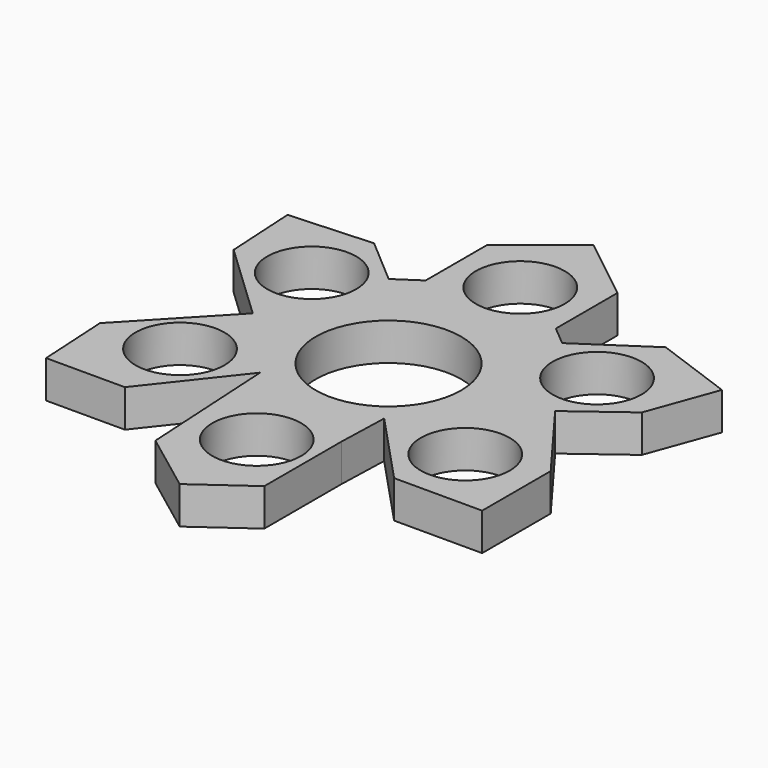
from build123d import *

# Parameters (mm, degrees)
F0_R     = 8.314784
F0_R_2   = 13.60402
F1_DEPTH = 7


with BuildPart() as f1:
    # F0 (on Top) → F1 (new body)
    with BuildSketch(Plane.XY):
        Polygon((-12.173187, 38.323), (-12.173187, 29.305821), (-12.173187, 23.895517), (-16.681775, 20.889791), (-25.398379, 28.377517), (-40.892324, 27.501774), (-40.126432, 13.951342), (-25.398379, 0), (-40.892324, -16.356536), (-40.126432, -29.906968), (-25.398379, -29.906968), (-12.835752, -13.976623), (-12.173187, -25.698951), (-11.347213, -40.312362), (0, -48.843037), (10.069179, -41.629296), (10.069179, -23.594944), (10.369752, -13.976623), (23.294371, -27.802957), (39.757541, -27.802957), (39.757541, -11.776054), (28.404102, 3.456584), (38.556404, 11.023464), (43.248007, 23.895517), (28.404102, 29.305821), (15.78006, 20.889791), (12.173187, 23.895517), (12.173187, 38.323), (0, 47.94132), align=None)
        with Locations((0, -30.808685)):
            Circle(F0_R, mode=Mode.SUBTRACT)
        with Locations((-26.681104, -15.404343)):
            Circle(F0_R, mode=Mode.SUBTRACT)
        with Locations((26.681104, -15.404343)):
            Circle(F0_R, mode=Mode.SUBTRACT)
        with Locations((-26.681104, 15.404343)):
            Circle(F0_R, mode=Mode.SUBTRACT)
        Circle(F0_R_2, mode=Mode.SUBTRACT)
        with Locations((0, 30.808685)):
            Circle(F0_R, mode=Mode.SUBTRACT)
        with Locations((26.681104, 15.404343)):
            Circle(F0_R, mode=Mode.SUBTRACT)
    extrude(amount=F1_DEPTH)


solid = f1.part
